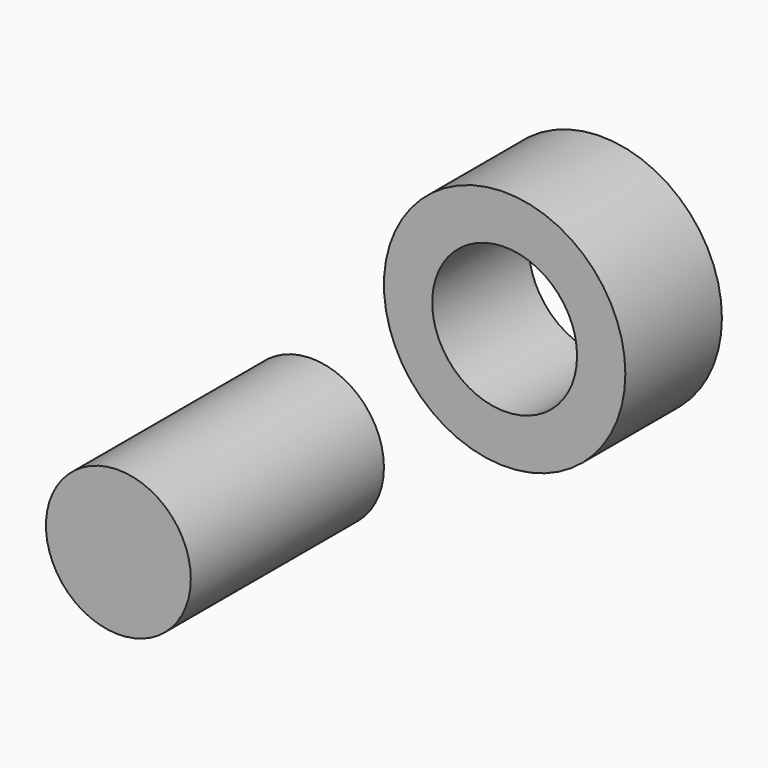
from build123d import *

# Parameters (mm, degrees)
F0_R     = 25
F0_R_2   = 15
F1_DEPTH = 25
F3_R     = 15
F4_DEPTH = 50


with BuildPart() as f1:
    # F0 (on Front) → F1 (new body)
    with BuildSketch(Plane.XZ):
        Circle(F0_R)
        Circle(F0_R_2, mode=Mode.SUBTRACT)
    extrude(amount=F1_DEPTH)


with BuildPart() as f4:
    # F3 (on offset) → F4 (new body)
    with BuildSketch(Plane.XZ.offset(75)):
        Circle(F3_R)
    extrude(amount=F4_DEPTH)


solid = Compound([f1.part, f4.part])
